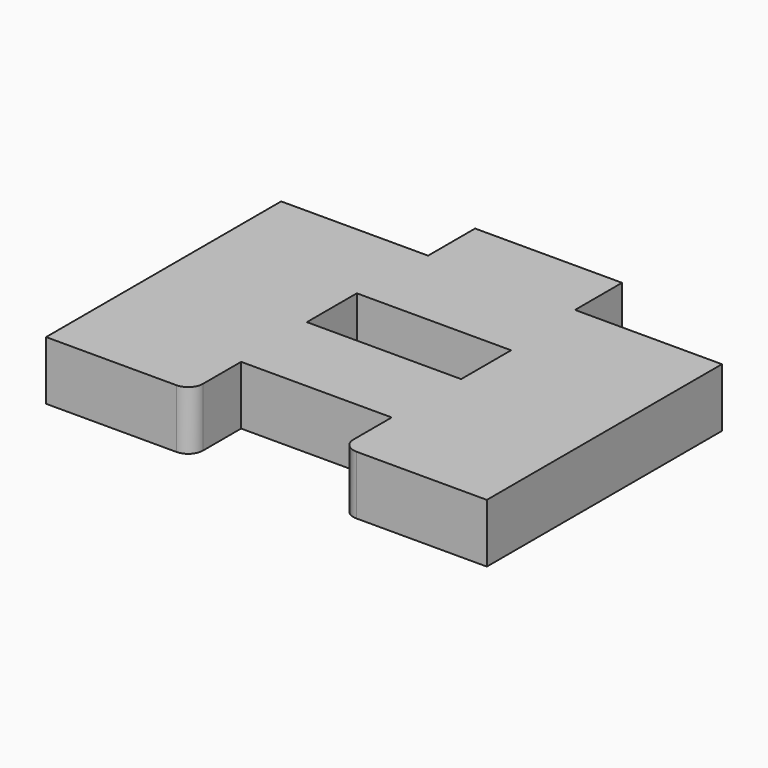
from build123d import *

# Parameters (mm, degrees)
SKETCH_W  = 10.5
SKETCH_H  = 4.25
PAD_DEPTH = 4
FILLET_R  = 1


with BuildPart() as part:
    # Sketch → Pad (new body)
    with BuildSketch(Plane.XY):
        Polygon((-15, 10), (-15, -10), (-5.125, -10), (-5.125, -5.75), (5.125, -5.75), (5.125, -10), (15, -10), (15, 10), (5, 10), (5, 14), (-5, 14), (-5, 10), align=None)
        with Locations((0, 2.125)):
            Rectangle(SKETCH_W, SKETCH_H, mode=Mode.SUBTRACT)
    extrude(amount=PAD_DEPTH)

    # Fillet
    fillet_edges = [part.edges().sort_by_distance(p)[0] for p in [
        (-5.125, -10, 2),
        (5.125, -10, 2),
    ]]
    fillet(fillet_edges, radius=FILLET_R)


solid = part.part
